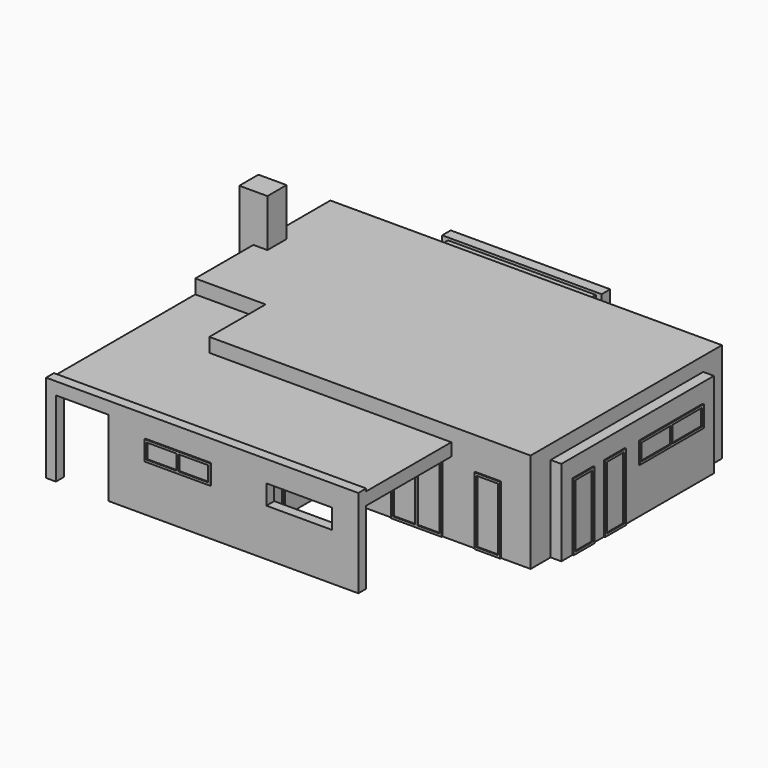
from build123d import *

# Parameters (mm, degrees)
F1_DEPTH  = 355
F0_W      = 50
F0_H      = 85
F2_DEPTH  = 524
F0_W_2    = 509
F0_H_2    = 92
F0_W_3    = 250
F0_H_3    = 250
F0_W_4    = 38
F0_H_4    = 678
F3_DEPTH  = 305
F0_W_5    = 1110
F0_H_5    = 35
F4_DEPTH  = 314
F5_W      = 378
F5_H      = 260
F6_DEPTH  = 450
F7_W      = 628
F7_H      = 270
F8_DEPTH  = 250
F9_W      = 187
F9_H      = 270
F9_W_2    = 234
F9_H_2    = 70
F10_DEPTH = 35
F12_W     = 92
F12_H     = 35
F13_DEPTH = 8
F14_W     = 92
F14_H     = 35
F15_DEPTH = 8
F16_W     = 230
F16_H     = 75
F16_W_2   = 103
F16_H_2   = 59
F16_W_3   = 303
F16_H_3   = 252
F16_W_4   = 90.3
F16_H_4   = 236
F16_W_5   = 90.4
F11_W     = 92
F11_H     = 240
F11_W_2   = 76
F11_H_2   = 224
F24_DEPTH = 4
F12_W_2   = 75
F12_H_2   = 244
F12_W_3   = 59
F12_H_3   = 228
F17_W     = 284
F17_H     = 75
F17_W_2   = 130
F17_H_2   = 59
F17_W_3   = 92
F17_H_3   = 240
F17_W_4   = 76
F17_H_4   = 224
F22_W     = 103
F22_H     = 240
F22_W_2   = 87
F22_H_2   = 224
F25_DEPTH = 4
F19_W     = 210
F19_H     = 260
F19_W_2   = 93
F19_H_2   = 244
F21_W     = 234
F21_H     = 70
F21_W_2   = 105
F21_H_2   = 54
F23_W     = 92
F23_H     = 240
F23_W_2   = 76
F23_H_2   = 224
F23_W_3   = 181
F23_W_4   = 78.5
F26_DEPTH = 4
F18_W     = 206
F18_H     = 260
F18_W_2   = 91
F18_H_2   = 244
F20_W     = 212
F20_H     = 260
F20_W_2   = 94
F20_H_2   = 244
F20_W_3   = 103
F20_H_3   = 240
F20_W_4   = 87
F20_H_4   = 224
F14_W_2   = 75
F14_H_2   = 244
F14_W_3   = 59
F14_H_3   = 228
F27_DEPTH = 4
F20_W_5   = 71
F20_H_5   = 98.5
F28_DEPTH = 6


with BuildPart() as f1:
    # F0 (on Top) → F1 (new body)
    with BuildSketch(Plane.XY):
        Polygon((-339.8249648809, 559.0625905621), (-692.8249648809, 559.0625905621), (-692.8249648809, 302.0625905621), (-642.8249648809, 302.0625905621), (-642.8249648809, 217.0625905621), (-692.8249648809, 217.0625905621), (-692.8249648809, -40.9374094379), (-442.8249648809, -40.9374094379), (-442.8249648809, -290.9374094379), (417.1750351191, -290.9374094379), (699.1750351191, -290.9374094379), (699.1750351191, -201.9374094379), (699.1750351191, 476.0625905621), (699.1750351191, 559.0625905621), (169.1750351191, 559.0625905621), align=None)
    extrude(amount=F1_DEPTH)

    # F0 (on Top) → F2 (join)
    with BuildSketch(Plane.XY):
        with Locations((-717.8249648809, 259.5625905621)):
            Rectangle(F0_W, F0_H)
        with Locations((-667.8249648809, 259.5625905621)):
            Rectangle(F0_W, F0_H)
    extrude(amount=F2_DEPTH)

    # F0 (on Top) → F3 (join)
    with BuildSketch(Plane.XY):
        with Locations((-85.3249648809, 605.0625905621)):
            Rectangle(F0_W_2, F0_H_2)
        Polygon((-442.8249648809, -290.9374094379), (-692.8249648809, -290.9374094379), (-692.8249648809, -668.9374094379), (417.1750351191, -668.9374094379), (417.1750351191, -290.9374094379), align=None)
        with Locations((-567.8249648809, -165.9374094379)):
            Rectangle(F0_W_3, F0_H_3)
        with Locations((718.1750351191, 137.0625905621)):
            Rectangle(F0_W_4, F0_H_4)
    extrude(amount=F3_DEPTH)

    # F0 (on Top) → F4 (join)
    with BuildSketch(Plane.XY):
        Polygon((-368.8249648809, 651.0625905621), (-339.8249648809, 651.0625905621), (169.1750351191, 651.0625905621), (198.1750351191, 651.0625905621), (198.1750351191, 689.0625905621), (-368.8249648809, 689.0625905621), align=None)
        with Locations((-137.8249648809, -686.4374094379)):
            Rectangle(F0_W_5, F0_H_5)
    extrude(amount=F4_DEPTH)

    # F5 (on face) → F6 (cut)
    with BuildSketch(Plane.YZ.offset(417.1750351191)):
        with Locations((-479.9374094379, 130)):
            Rectangle(F5_W, F5_H)
    extrude(amount=-F6_DEPTH, mode=Mode.SUBTRACT)

    # F7 (on face) → F8 (cut)
    with BuildSketch(Plane(origin=(-692.8249648809, 0, 0), x_dir=(0, -1, 0), z_dir=(-1, 0, 0))):
        with Locations((354.9374094379, 135)):
            Rectangle(F7_W, F7_H)
    extrude(amount=-F8_DEPTH, mode=Mode.SUBTRACT)

    # F9 (on face) → F10 (cut, through all)
    with BuildSketch(Plane.XZ.offset(703.9374094379)):
        with Locations((-564.3249648809, 135)):
            Rectangle(F9_W, F9_H)
        with Locations((207.1750351191, 203)):
            Rectangle(F9_W_2, F9_H_2)
    extrude(amount=-F10_DEPTH, mode=Mode.SUBTRACT)

    # F12 (on face) → F13 (join)
    with BuildSketch(Plane.YZ.offset(169.1750351191)):
        with Locations((605.0625905621, 287.5)):
            Rectangle(F12_W, F12_H)
    extrude(amount=F13_DEPTH)

    # F14 (on face) → F15 (join)
    with BuildSketch(Plane(origin=(-339.8249648809, 0, 0), x_dir=(0, -1, 0), z_dir=(-1, 0, 0))):
        with Locations((-605.0625905621, 287.5)):
            Rectangle(F14_W, F14_H)
    extrude(amount=F15_DEPTH)

    # F16 (on face) + F11 (on face) → F24 (join)
    with BuildSketch(Plane(origin=(0, 559.0625905621, 0), x_dir=(-1, 0, 0), z_dir=(0, 1, 0))):
        with Locations((-311.1750351191, 200.5)):
            Rectangle(F16_W, F16_H)
        with Locations((-366.6750351191, 200.5)):
            Rectangle(F16_W_2, F16_H_2, mode=Mode.SUBTRACT)
        with Locations((-255.6750351191, 200.5)):
            Rectangle(F16_W_2, F16_H_2, mode=Mode.SUBTRACT)
        with Locations((503.3249648809, 140)):
            Rectangle(F16_W_3, F16_H_3)
        with Locations((404.9749648809, 140)):
            Rectangle(F16_W_4, F16_H_4, mode=Mode.SUBTRACT)
        with Locations((503.3249648809, 140)):
            Rectangle(F16_W_5, F16_H_4, mode=Mode.SUBTRACT)
        with Locations((601.6749648809, 140)):
            Rectangle(F16_W_4, F16_H_4, mode=Mode.SUBTRACT)
    with BuildSketch(Plane(origin=(0, 689.0625905621, 0), x_dir=(-1, 0, 0), z_dir=(0, 1, 0))):
        with Locations((-55.1750351191, 120)):
            Rectangle(F11_W, F11_H)
        with Locations((-55.1750351191, 120)):
            Rectangle(F11_W_2, F11_H_2, mode=Mode.SUBTRACT)
        with Locations((84.8249648809, 120)):
            Rectangle(F11_W, F11_H)
        with Locations((84.8249648809, 120)):
            Rectangle(F11_W_2, F11_H_2, mode=Mode.SUBTRACT)
        with Locations((224.8249648809, 120)):
            Rectangle(F11_W, F11_H)
        with Locations((224.8249648809, 120)):
            Rectangle(F11_W_2, F11_H_2, mode=Mode.SUBTRACT)
    extrude(amount=F24_DEPTH)

    # F12 (on face) + F17 (on face) + F22 (on face) → F25 (join)
    with BuildSketch(Plane.YZ.offset(169.1750351191)):
        with Locations((600.5625905621, 130)):
            Rectangle(F12_W_2, F12_H_2)
        with Locations((600.5625905621, 130)):
            Rectangle(F12_W_3, F12_H_3, mode=Mode.SUBTRACT)
    with BuildSketch(Plane.YZ.offset(737.1750351191)):
        with Locations((284.0625905621, 200.5)):
            Rectangle(F17_W, F17_H)
        with Locations((215.0625905621, 200.5)):
            Rectangle(F17_W_2, F17_H_2, mode=Mode.SUBTRACT)
        with Locations((353.0625905621, 200.5)):
            Rectangle(F17_W_2, F17_H_2, mode=Mode.SUBTRACT)
        with Locations((34.0625905621, 120)):
            Rectangle(F17_W_3, F17_H_3)
        with Locations((34.0625905621, 120)):
            Rectangle(F17_W_4, F17_H_4, mode=Mode.SUBTRACT)
        with Locations((-105.9374094379, 120)):
            Rectangle(F17_W_3, F17_H_3)
        with Locations((-105.9374094379, 120)):
            Rectangle(F17_W_4, F17_H_4, mode=Mode.SUBTRACT)
    with BuildSketch(Plane.YZ.offset(-32.8249648809)):
        with Locations((-524.4374094379, 120)):
            Rectangle(F22_W, F22_H)
        with Locations((-524.4374094379, 120)):
            Rectangle(F22_W_2, F22_H_2, mode=Mode.SUBTRACT)
    extrude(amount=F25_DEPTH)

    # F19 (on face) + F21 (on face) + F23 (on face) → F26 (join)
    with BuildSketch(Plane.XZ.offset(40.9374094379)):
        with Locations((-552.8249648809, 130)):
            Rectangle(F19_W, F19_H)
        with Locations((-603.3249648809, 130)):
            Rectangle(F19_W_2, F19_H_2, mode=Mode.SUBTRACT)
        with Locations((-502.3249648809, 130)):
            Rectangle(F19_W_2, F19_H_2, mode=Mode.SUBTRACT)
    with BuildSketch(Plane.XZ.offset(703.9374094379)):
        with Locations((-222.8249648809, 203)):
            Rectangle(F21_W, F21_H)
        with Locations((-279.3249648809, 203)):
            Rectangle(F21_W_2, F21_H_2, mode=Mode.SUBTRACT)
        with Locations((-166.3249648809, 203)):
            Rectangle(F21_W_2, F21_H_2, mode=Mode.SUBTRACT)
    with BuildSketch(Plane.XZ.offset(290.9374094379)):
        with Locations((60.1750351191, 120)):
            Rectangle(F23_W, F23_H)
        with Locations((60.1750351191, 120)):
            Rectangle(F23_W_2, F23_H_2, mode=Mode.SUBTRACT)
        with Locations((295.6750351191, 120)):
            Rectangle(F23_W_3, F23_H)
        with Locations((252.4250351191, 120)):
            Rectangle(F23_W_4, F23_H_2, mode=Mode.SUBTRACT)
        with Locations((338.9250351191, 120)):
            Rectangle(F23_W_4, F23_H_2, mode=Mode.SUBTRACT)
        with Locations((548.1750351191, 120)):
            Rectangle(F23_W, F23_H)
        with Locations((548.1750351191, 120)):
            Rectangle(F23_W_2, F23_H_2, mode=Mode.SUBTRACT)
    extrude(amount=F26_DEPTH)

    # F18 (on face) + F20 (on face) + F14 (on face) → F27 (join)
    with BuildSketch(Plane(origin=(-692.8249648809, 0, 0), x_dir=(0, -1, 0), z_dir=(-1, 0, 0))):
        with Locations((-101.0625905621, 130)):
            Rectangle(F18_W, F18_H)
        with Locations((-150.5625905621, 130)):
            Rectangle(F18_W_2, F18_H_2, mode=Mode.SUBTRACT)
        with Locations((-51.5625905621, 130)):
            Rectangle(F18_W_2, F18_H_2, mode=Mode.SUBTRACT)
        with Locations((-418.0625905621, 130)):
            Rectangle(F18_W, F18_H)
        with Locations((-467.5625905621, 130)):
            Rectangle(F18_W_2, F18_H_2, mode=Mode.SUBTRACT)
        with Locations((-368.5625905621, 130)):
            Rectangle(F18_W_2, F18_H_2, mode=Mode.SUBTRACT)
    with BuildSketch(Plane(origin=(-442.8249648809, 0, 0), x_dir=(0, -1, 0), z_dir=(-1, 0, 0))):
        with Locations((146.9374094379, 130)):
            Rectangle(F20_W, F20_H)
        with Locations((95.9374094379, 130)):
            Rectangle(F20_W_2, F20_H_2, mode=Mode.SUBTRACT)
        with Locations((197.9374094379, 130)):
            Rectangle(F20_W_2, F20_H_2, mode=Mode.SUBTRACT)
        with Locations((524.4374094379, 120)):
            Rectangle(F20_W_3, F20_H_3)
        with Locations((524.4374094379, 120)):
            Rectangle(F20_W_4, F20_H_4, mode=Mode.SUBTRACT)
    with BuildSketch(Plane(origin=(-339.8249648809, 0, 0), x_dir=(0, -1, 0), z_dir=(-1, 0, 0))):
        with Locations((-600.5625905621, 130)):
            Rectangle(F14_W_2, F14_H_2)
        with Locations((-600.5625905621, 130)):
            Rectangle(F14_W_3, F14_H_3, mode=Mode.SUBTRACT)
    extrude(amount=F27_DEPTH)

    # F20 (on face) → F28 (join)
    with BuildSketch(Plane(origin=(-442.8249648809, 0, 0), x_dir=(0, -1, 0), z_dir=(-1, 0, 0))):
        with Locations((524.4374094379, 120)):
            Rectangle(F20_W_4, F20_H_4)
        with Locations((524.4374094379, 65.25)):
            Rectangle(F20_W_5, F20_H_5, mode=Mode.SUBTRACT)
        with Locations((524.4374094379, 174.75)):
            Rectangle(F20_W_5, F20_H_5, mode=Mode.SUBTRACT)
    extrude(amount=F28_DEPTH)


solid = f1.part
